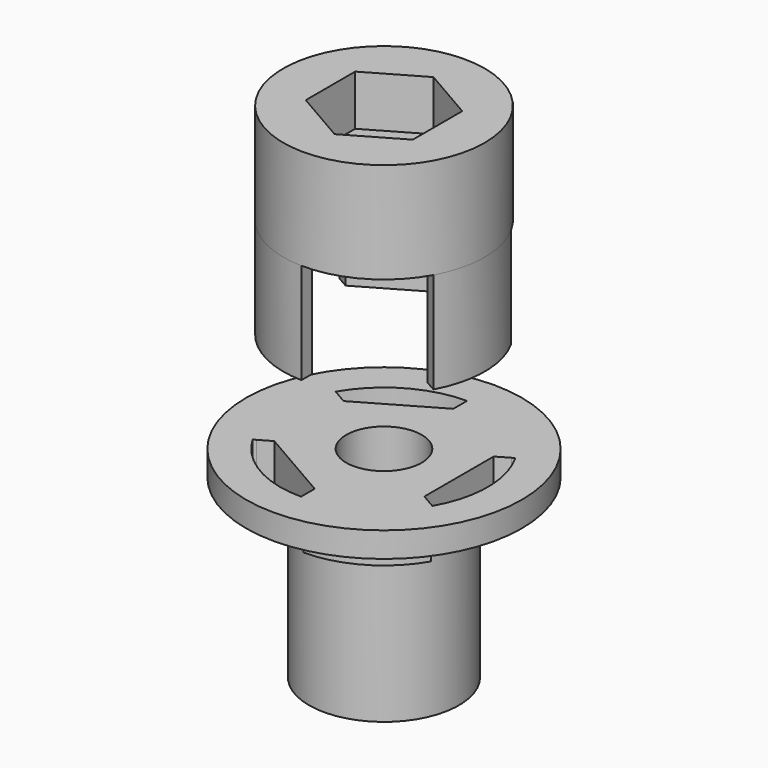
from build123d import *

# Parameters (mm, degrees)
F2_R      = 4.7625
F3_DEPTH  = 9.525
F5_DEPTH  = 25.4
F8_DEPTH  = 12.7
F9_R      = 4.7625
F10_DEPTH = 12.7
F11_R     = 4.7625
F12_DEPTH = 6.35
F13_R     = 17.399
F14_DEPTH = 3.175


with BuildPart() as f1:
    # F0 (on Front) → F1 (revolve)
    with BuildSketch(Plane.XZ):
        Polygon((-9.4615, 0), (-4.7625, 0), (-4.7625, 6.35), (-4.7625, 25.4), (-12.7, 25.4), (-12.7, 19.05), (-9.4615, 19.05), align=None)
    revolve(axis=Axis((0, 0, 10.2228309714), (0, 0, 1)))

    # F2 (on face) → F3 (cut)
    with BuildSketch(Plane(origin=(0, 0, 0), x_dir=(1, 0, 0), z_dir=(0, 0, -1))):
        Polygon((6.75, -3.897114317), (6.75, 3.897114317), (0, 7.7942286341), (-6.75, 3.897114317), (-6.75, -3.897114317), (0, -7.7942286341), align=None)
        Circle(F2_R, mode=Mode.SUBTRACT)
    extrude(amount=-F3_DEPTH, mode=Mode.SUBTRACT)

    # F4 (on face) → F5 (cut)
    with BuildSketch(Plane.XY.offset(25.4)):
        with BuildLine():
            Line((-4.73075, 8.1938993579), (0, 10.9251991439))
            Line((0, 10.9251991439), (0, 12.7))
            ThreePointArc((0, 12.7), (-6.35, 10.9985226281), (-10.9985226281, 6.35))
            Line((-10.9985226281, 6.35), (-9.4615, 5.4625995719))
            Line((-9.4615, 5.4625995719), (-4.73075, 8.1938993579))
        make_face()
        with BuildLine():
            Line((-9.4615, -5.4625995719), (-10.9985226281, -6.35))
            ThreePointArc((-10.9985226281, -6.35), (-6.35, -10.9985226281), (0, -12.7))
            Line((0, -12.7), (0, -10.9251991439))
            Line((0, -10.9251991439), (-4.73075, -8.1938993579))
            Line((-4.73075, -8.1938993579), (-9.4615, -5.4625995719))
        make_face()
        with BuildLine():
            ThreePointArc((12.7, 0), (12.2672579939, 3.2870018728), (10.9985226281, 6.35))
            Line((10.9985226281, 6.35), (9.4615, 5.4625995719))
            Line((9.4615, 5.4625995719), (9.4615, 0))
            Line((9.4615, 0), (9.4615, -5.4625995719))
            Line((9.4615, -5.4625995719), (10.9985226281, -6.35))
            ThreePointArc((10.9985226281, -6.35), (12.2672579939, -3.2870018728), (12.7, 0))
        make_face()
    extrude(amount=-F5_DEPTH, mode=Mode.SUBTRACT)

    # F13 (on face) → F14 (join)
    with BuildSketch(Plane.XY.offset(25.4)):
        Circle(F13_R)
        with BuildLine():
            ThreePointArc((11.3284783069, 6.5405), (13.081, 0), (11.3284783069, -6.5405))
            Line((11.3284783069, -6.5405), (10.9985226281, -6.35))
            ThreePointArc((10.9985226281, -6.35), (6.35, -10.9985226281), (0, -12.7))
            Line((0, -12.7), (0, -13.081))
            ThreePointArc((0, -13.081), (-6.5405, -11.3284783069), (-11.3284783069, -6.5405))
            Line((-11.3284783069, -6.5405), (-10.9985226281, -6.35))
            ThreePointArc((-10.9985226281, -6.35), (-12.7, 0), (-10.9985226281, 6.35))
            Line((-10.9985226281, 6.35), (-11.3284783069, 6.5405))
            ThreePointArc((-11.3284783069, 6.5405), (-6.5405, 11.3284783069), (0, 13.081))
            Line((0, 13.081), (0, 12.7))
            ThreePointArc((0, 12.7), (6.35, 10.9985226281), (10.9985226281, 6.35))
            Line((10.9985226281, 6.35), (11.3284783069, 6.5405))
        make_face(mode=Mode.SUBTRACT)
    extrude(amount=-F14_DEPTH)


with BuildPart() as f8:
    # F7 (on offset) → F8 (new body)
    with BuildSketch(Plane.XY.offset(38.1)):
        with BuildLine():
            Line((-9.4615, 5.7558935087), (-0.254, 11.0718461122))
            Line((-0.254, 11.0718461122), (-0.254, 12.6974597459))
            ThreePointArc((-0.254, 12.6974597459), (-6.35, 10.9985226281), (-10.8693227035, 6.5687003255))
            Line((-10.8693227035, 6.5687003255), (-9.4615, 5.7558935087))
        make_face()
    extrude(amount=F8_DEPTH)



with BuildPart() as f8b:
    # F7 (on offset) → F8, piece 2 (new body)
    with BuildSketch(Plane.XY.offset(38.1)):
        with BuildLine():
            Line((11.1233227035, 6.1287594204), (9.7155, 5.3159526036))
            Line((9.7155, 5.3159526036), (9.7155, -5.3159526036))
            Line((9.7155, -5.3159526036), (11.1233227035, -6.1287594204))
            ThreePointArc((11.1233227035, -6.1287594204), (12.7, 0), (11.1233227035, 6.1287594204))
        make_face()
    extrude(amount=F8_DEPTH)


with BuildPart() as f8c:
    # F7 (on offset) → F8, piece 3 (new body)
    with BuildSketch(Plane.XY.offset(38.1)):
        with BuildLine():
            Line((-0.254, -12.6974597459), (-0.254, -11.0718461122))
            Line((-0.254, -11.0718461122), (-9.4615, -5.7558935087))
            Line((-9.4615, -5.7558935087), (-10.8693227035, -6.5687003255))
            ThreePointArc((-10.8693227035, -6.5687003255), (-6.35, -10.9985226281), (-0.254, -12.6974597459))
        make_face()
    extrude(amount=F8_DEPTH)


with BuildPart() as f8_1:
    add(f8.part)

    add(f8b.part)  # F10 merges F8b

    add(f8c.part)  # F10 merges F8c
    # F9 (on face) → F10 (join)
    with BuildSketch(Plane.XY.offset(50.8)):
        with BuildLine():
            ThreePointArc((-10.8693227035, 6.5687003255), (-3.4095162168, -12.2337728918), (12.7, 0))
            ThreePointArc((12.7, 0), (8.89, 9.0696141042), (-0.254, 12.6974597459))
            Line((-0.254, 12.6974597459), (-0.254, 11.0718461122))
            Line((-0.254, 11.0718461122), (-9.4615, 5.7558935087))
            Line((-9.4615, 5.7558935087), (-10.8693227035, 6.5687003255))
        make_face()
        Circle(F9_R, mode=Mode.SUBTRACT)
        with BuildLine():
            Line((-0.254, 11.0718461122), (-0.254, 12.6974597459))
            ThreePointArc((-0.254, 12.6974597459), (-6.35, 10.9985226281), (-10.8693227035, 6.5687003255))
            Line((-10.8693227035, 6.5687003255), (-9.4615, 5.7558935087))
            Line((-9.4615, 5.7558935087), (-0.254, 11.0718461122))
        make_face()
    extrude(amount=F10_DEPTH)

    # F11 (on face) → F12 (cut)
    with BuildSketch(Plane.XY.offset(63.5)):
        Polygon((6.75, 3.897114317), (0, 7.7942286341), (-6.75, 3.897114317), (-6.75, -3.897114317), (0, -7.7942286341), (6.75, -3.897114317), align=None)
        Circle(F11_R, mode=Mode.SUBTRACT)
    extrude(amount=-F12_DEPTH, mode=Mode.SUBTRACT)


solid = Compound([f1.part, f8_1.part])
